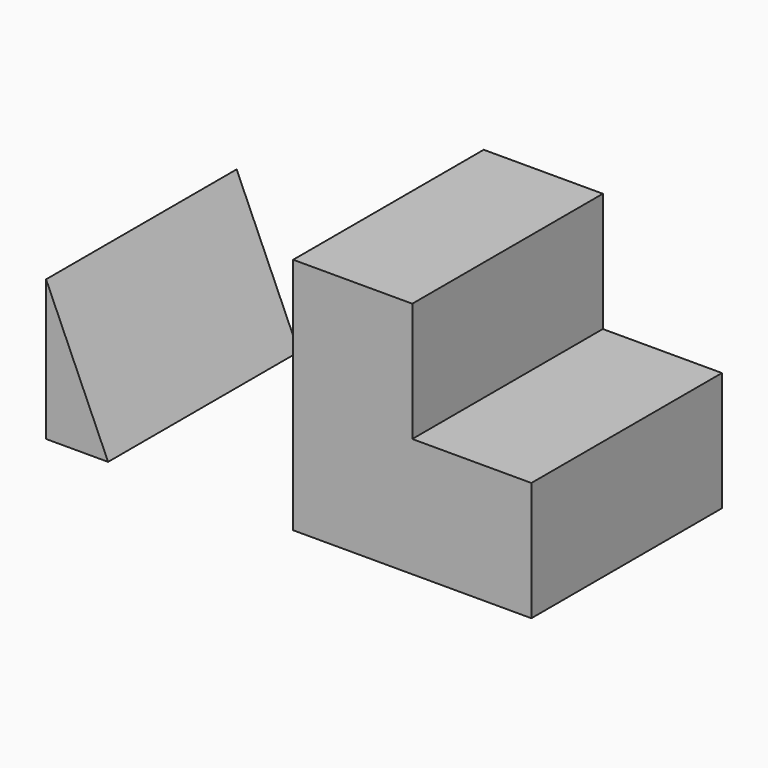
from build123d import *

# Parameters (mm, degrees)
F1_DEPTH = 50.8


with BuildPart() as f1:
    # F0 (on Front) → F1 (new body)
    with BuildSketch(Plane.XZ):
        Polygon((-52.703485, 0), (-39.477067, 0), (-52.703485, 29.979881), align=None)
        Polygon((0, 50.8), (0, 0), (50.8, 0), (50.8, 25.4), (25.4, 25.4), (25.4, 50.8), align=None)
    extrude(amount=F1_DEPTH)


solid = f1.part
